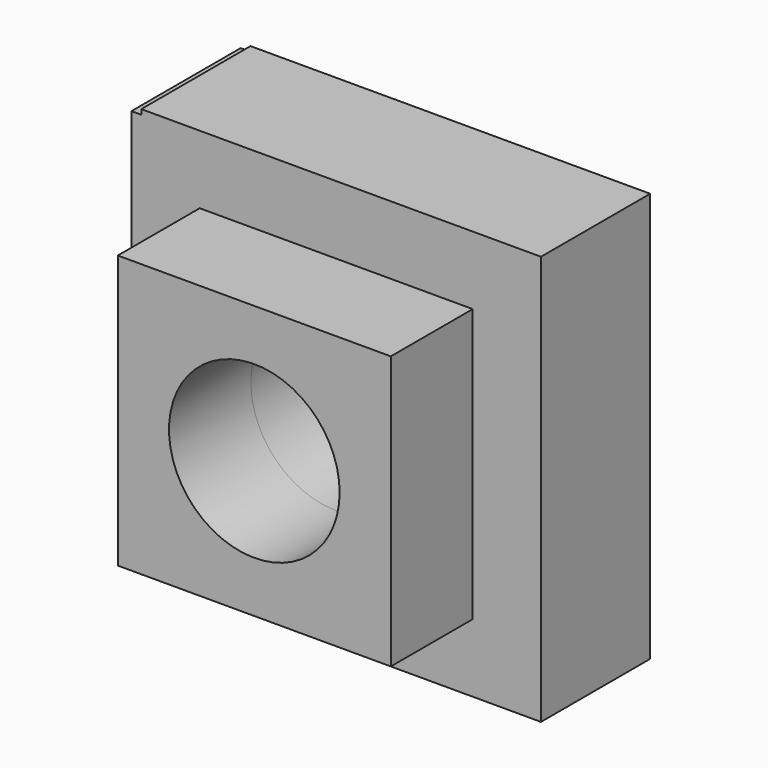
from build123d import *

# Parameters (mm, degrees)
F0_W     = 101.6
F0_H     = 101.6
F0_R     = 31.75
F1_DEPTH = 38.1
F2_R     = 31.75
F3_DEPTH = 50.8


with BuildPart() as f1:
    # F0 (on Front) → F1 (new body)
    with BuildSketch(Plane.XZ):
        Rectangle(F0_W, F0_H)
        Circle(F0_R, mode=Mode.SUBTRACT)
    extrude(amount=F1_DEPTH)

    # F2 (on Front) → F3 (join)
    with BuildSketch(Plane.XZ):
        Polygon((-72.544911, 76.2), (-72.544911, 74.35935), (-76.2, 74.35935), (-76.2, -76.2), (76.2, -76.2), (76.2, 76.2), align=None)
        Circle(F2_R, mode=Mode.SUBTRACT)
    extrude(amount=-F3_DEPTH)


solid = f1.part
